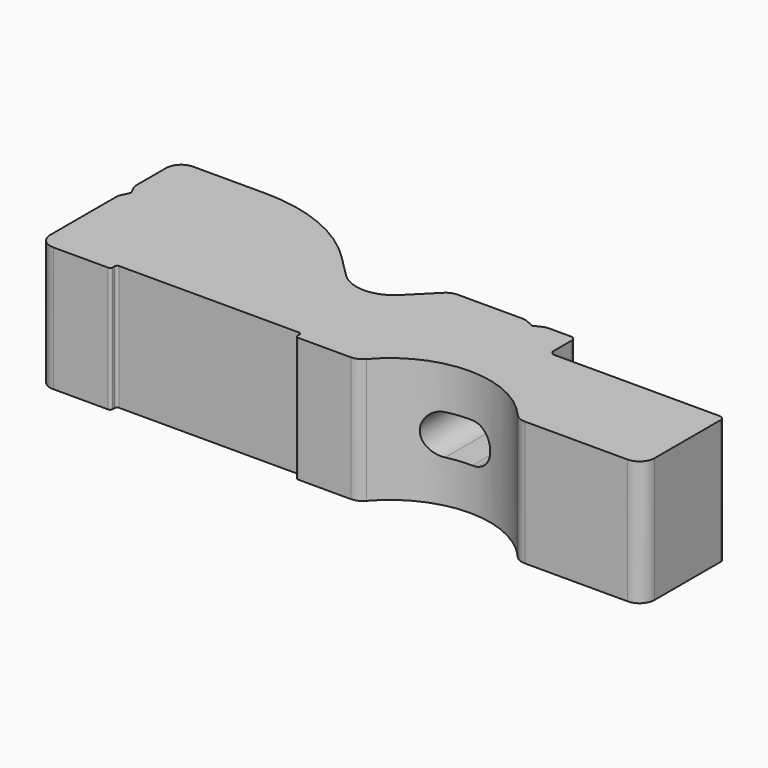
from build123d import *

# Parameters (mm, degrees)
PAD_DEPTH            = 12.5
SKETCH001_R          = 10.1
POCKET_DEPTH         = 0.5
SKETCH002_R          = 7.25
HOLE_DEPTH           = 30.643761
HOLE_TIPS_R          = 7.25
POCKET001_DEPTH      = 35.001
POCKET001_DEPTH_BACK = 0.001


with BuildPart() as part:
    # Sketch → Pad (new body, symmetric)
    with BuildSketch(Plane.XY):
        with BuildLine():
            Line((0, 32), (0, 24.5))
            ThreePointArc((0, 24.5), (0.047408, 24.067121), (0.187384, 23.654763))
            Line((0.187384, 23.654763), (0.959013, 22))
            Line((0.959013, 22), (0.187384, 20.345237))
            ThreePointArc((0.187384, 20.345237), (0.047408, 19.932879), (0, 19.5))
            Line((0, 3), (0, 19.5))
            ThreePointArc((0, 3), (0.87868, 0.87868), (3, 0))
            Line((3, 0), (14, 0))
            ThreePointArc((14, 0), (14.353553, 0.146447), (14.5, 0.5))
            Line((14.5, 1), (14.5, 0.5))
            ThreePointArc((15, 1.5), (14.646447, 1.353553), (14.5, 1))
            Line((15, 1.5), (51, 1.5))
            ThreePointArc((51.5, 1), (51.353553, 1.353553), (51, 1.5))
            Line((51.5, 1), (51.5, 0.5))
            ThreePointArc((51.5, 0.5), (51.646447, 0.146447), (52, 0))
            Line((52, 0), (62.564404, 0))
            ThreePointArc((62.564404, 0), (63.815491, 0.27332), (64.838612, 1.043478))
            ThreePointArc((95.161388, 1.043478), (80, 8), (64.838612, 1.043478))
            ThreePointArc((95.161388, 1.043478), (96.184509, 0.27332), (97.435596, 0))
            Line((97.435596, 0), (118, 0))
            ThreePointArc((118, 0), (120.12132, 0.87868), (121, 3))
            Line((121, 19.5), (121, 3))
            ThreePointArc((121, 19.5), (120.707107, 20.207107), (120, 20.5))
            Line((87, 20.5), (120, 20.5))
            ThreePointArc((86, 21.5), (86.292893, 20.792893), (87, 20.5))
            Line((86, 26), (86, 21.5))
            ThreePointArc((86, 26), (85.707107, 26.707107), (85, 27))
            Line((80.5, 27), (85, 27))
            ThreePointArc((80.5, 27), (80.067121, 26.952592), (79.654763, 26.812616))
            Line((78, 26.040987), (79.654763, 26.812616))
            Line((76.345237, 26.812616), (78, 26.040987))
            ThreePointArc((76.345237, 26.812616), (75.932879, 26.952592), (75.5, 27))
            Line((62.384776, 27), (75.5, 27))
            ThreePointArc((62.384776, 27), (61.236726, 26.771639), (60.263456, 26.12132))
            Line((60.263456, 26.12132), (55.363961, 21.221825))
            ThreePointArc((44.636039, 21.221825), (50, 19), (55.363961, 21.221825))
            Line((40.230447, 25.627417), (44.636039, 21.221825))
            ThreePointArc((40.230447, 25.627417), (29.8489, 32.564145), (17.60303, 35))
            Line((3, 35), (17.60303, 35))
            ThreePointArc((3, 35), (0.87868, 34.12132), (0, 32))
        make_face()
    extrude(amount=PAD_DEPTH, both=True)

    # Sketch001 → Pocket (cut, symmetric)
    with BuildSketch(Plane.XY):
        with Locations((50, 30)):
            Circle(SKETCH001_R)
    extrude(amount=POCKET_DEPTH, both=True, mode=Mode.SUBTRACT)

    # Sketch002 → Hole (cut)
    with BuildSketch(Plane.YZ):
        with Locations((22, 0)):
            Circle(SKETCH002_R)
    extrude(amount=HOLE_DEPTH, mode=Mode.SUBTRACT)

    # Hole tips → Hole tip 1 section 0
    with BuildSketch(Plane.YZ.offset(30.643761), mode=Mode.PRIVATE) as hole_tip_1_s0:
        with Locations((22, 0)):
            Circle(HOLE_TIPS_R)
    loft([hole_tip_1_s0.sketch, Vertex(35, 22, 0)], mode=Mode.SUBTRACT)

    # Sketch003 → Pocket001 (cut, two sides)
    with BuildSketch(Plane.XZ) as pocket001_sk:
        with BuildLine():
            ThreePointArc((75.5, 4), (71.5, 0), (75.5, -4))
            Line((75.5, -4), (80.5, -4))
            ThreePointArc((80.5, -4), (84.5, 0), (80.5, 4))
            Line((75.5, 4), (80.5, 4))
        make_face()
    extrude(amount=-POCKET001_DEPTH, mode=Mode.SUBTRACT)
    extrude(pocket001_sk.sketch, amount=POCKET001_DEPTH_BACK, mode=Mode.SUBTRACT)


solid = part.part
